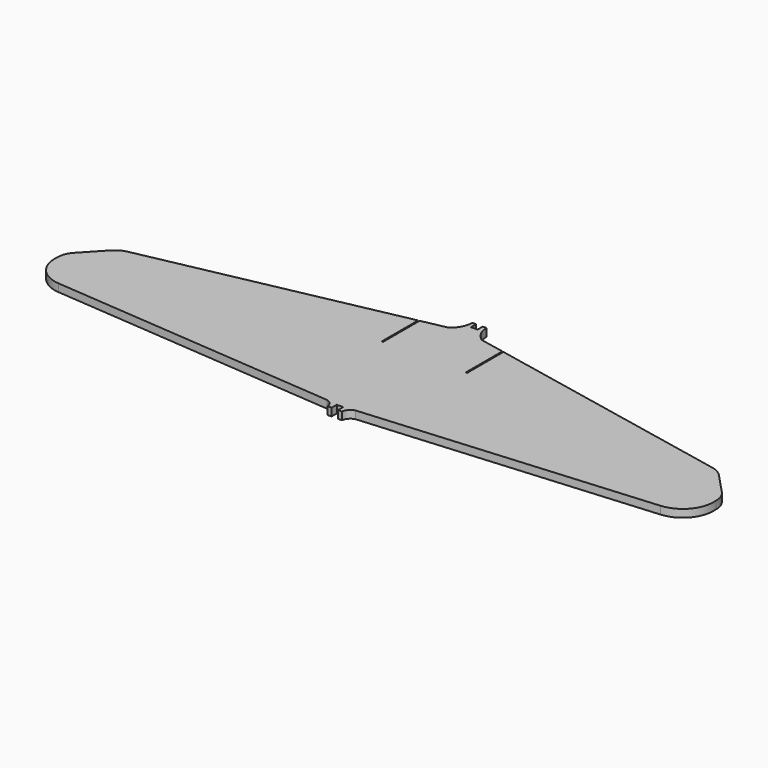
from build123d import *

# Parameters (mm, degrees)
F0_W     = 2.5
F0_H     = 84.828298
F0_H_2   = 45.171702
F1_DEPTH = 6
F3_COUNT = 2
F3_ANGLE = 180


with BuildPart() as f1:
    # F0 (on Top) → F1 (new body)
    with BuildSketch(Plane.XY):
        with BuildLine():
            Line((192.326957, -18.864548), (-57.173043, -18.864548))
            Line((-57.173043, -18.864548), (-57.173043, -69.03625))
            ThreePointArc((-57.173043, -69.03625), (-55.427418, -65.103617), (-51.781147, -62.819426))
            Line((-51.781147, -62.819426), (170.496624, -45.052804))
            ThreePointArc((170.496624, -45.052804), (186.918172, -36.548754), (192.326957, -18.864548))
        make_face()
        Polygon((-60.173043, -18.864548), (-57.173043, -18.864548), (-57.173043, 70.96375), (-60.173043, 70.96375), (-60.173043, 65.96375), align=None)
        with Locations((-61.423043, 23.549601)):
            Rectangle(F0_W, F0_H)
        Polygon((-57.173043, -69.03625), (-57.173043, -18.864548), (-60.173043, -18.864548), (-60.173043, -64.03625), (-60.173043, -69.03625), align=None)
        with Locations((-61.423043, -41.450399)):
            Rectangle(F0_W, F0_H_2)
        with BuildLine():
            Line((-57.173043, 70.96375), (-57.173043, -18.864548))
            Line((-57.173043, -18.864548), (192.326957, -18.864548))
            ThreePointArc((192.326957, -18.864548), (191.318788, -13.006753), (188.162474, -7.970102))
            Line((188.162474, -7.970102), (-29.638024, 17.603921))
            Line((-29.638024, 17.603921), (-30.638024, 17.603921))
            Line((-30.638024, 17.603921), (-30.638024, 53.075382))
            Line((-30.638024, 53.075382), (-49.68049, 56.956703))
            ThreePointArc((-49.68049, 56.956703), (-55.182221, 63.02121), (-57.173043, 70.96375))
        make_face()
        with BuildLine():
            Line((-29.638024, 17.603921), (188.162474, -7.970102))
            Line((188.162474, -7.970102), (172.748387, 8.427883))
            ThreePointArc((172.748387, 8.427883), (168.724522, 11.588688), (163.944572, 13.414685))
            Line((163.944572, 13.414685), (-29.638024, 52.871558))
            Line((-29.638024, 52.871558), (-29.638024, 17.603921))
        make_face()
    extrude(amount=F1_DEPTH)

    # F3: F1 ×2 about axis
    f3_axis = Axis((-62.673043, 0.96375, 3), (0, -1, 0))


with BuildPart() as f1_1:
    add(f1.part)
    for i in range(1, F3_COUNT):
        add(f1.part.rotate(f3_axis, i * F3_ANGLE / (F3_COUNT - 1)))


solid = f1_1.part
